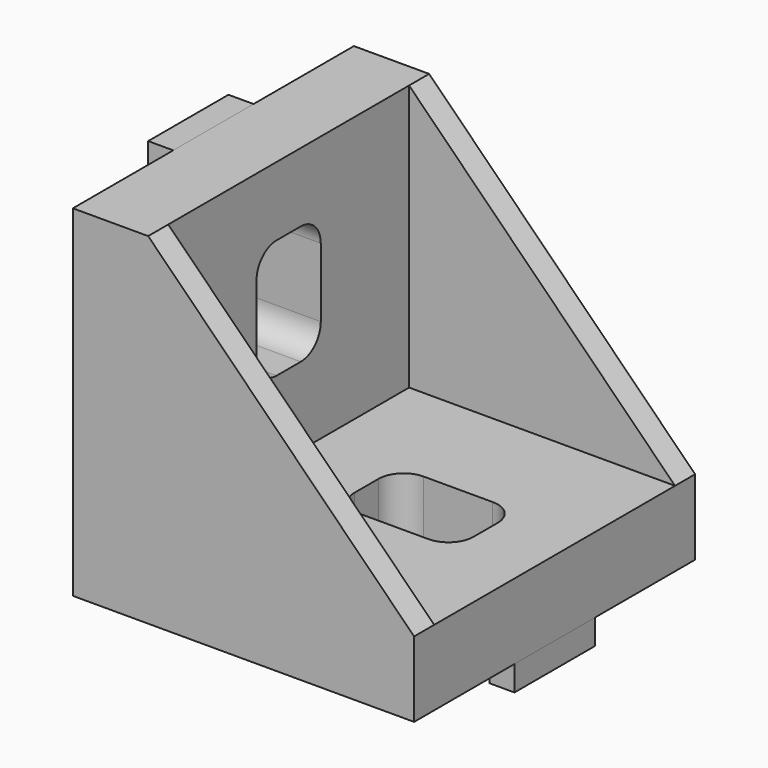
from build123d import *

# Parameters (mm, degrees)
BOX002_W                  = 2
BOX002_H                  = 8
BOX002_DEPTH              = 2
BOX003_W                  = 2
BOX003_H                  = 8
BOX003_DEPTH              = 2
BOX004_W                  = 2
BOX004_H                  = 8
BOX004_DEPTH              = 2
BOX005_W                  = 2
BOX005_H                  = 8
BOX005_DEPTH              = 2
FUSION002_PLACEMENT_ANGLE = 270
BOX_W                     = 9.5
BOX_H                     = 6.4
BOX_DEPTH                 = 6
BOX001_W                  = 9.5
BOX001_H                  = 6.4
BOX001_DEPTH              = 6
COMPOUND_PLACEMENT_ANGLE  = 270
PAD001_DEPTH              = 24
PAD_DEPTH                 = 28
FILLET_R                  = 2


with BuildPart() as cube002:
    # Box002 → Box002 (new body)
    with BuildSketch(Plane(origin=(0, -18, -2), x_dir=(1, 0, 0), z_dir=(0, 0, 1))):
        with Locations((1, 4)):
            Rectangle(BOX002_W, BOX002_H)
    extrude(amount=BOX002_DEPTH)


with BuildPart() as fusion001:
    # Box003 → Box003 (new body)
    with BuildSketch(Plane(origin=(25.2, -18, -2), x_dir=(1, 0, 0), z_dir=(0, 0, 1))):
        with Locations((1, 4)):
            Rectangle(BOX003_W, BOX003_H)
    extrude(amount=BOX003_DEPTH)

    # Fusion001: union Cube002
    add(cube002.part)


with BuildPart() as cube004:
    # Box004 → Box004 (new body)
    with BuildSketch(Plane(origin=(0, -18, -2), x_dir=(1, 0, 0), z_dir=(0, 0, 1))):
        with Locations((1, 4)):
            Rectangle(BOX004_W, BOX004_H)
    extrude(amount=BOX004_DEPTH)


with BuildPart() as slotguide:
    # Box005 → Box005 (new body)
    with BuildSketch(Plane(origin=(25.2, -18, -2), x_dir=(1, 0, 0), z_dir=(0, 0, 1))):
        with Locations((1, 4)):
            Rectangle(BOX005_W, BOX005_H)
    extrude(amount=BOX005_DEPTH)

    # Fusion002: union Cube004
    add(cube004.part)


with BuildPart() as slotguide_1:
    # Fusion002 placement: moved
    add(slotguide.part.moved(Location((-2, 0, 0))).rotate(Axis((-2, 0, 0), (0, 1, 0)), FUSION002_PLACEMENT_ANGLE))

    # Fusion003: union Fusion001
    add(fusion001.part)


with BuildPart() as cube:
    # Box → Box (new body)
    with BuildSketch(Plane(origin=(12.2, -17.2, 0), x_dir=(1, 0, 0), z_dir=(0, 0, 1))):
        with Locations((4.75, 3.2)):
            Rectangle(BOX_W, BOX_H)
    extrude(amount=BOX_DEPTH)


with BuildPart() as fusion:
    # Box001 → Box001 (new body)
    with BuildSketch(Plane(origin=(12.2, -17.2, 0), x_dir=(1, 0, 0), z_dir=(0, 0, 1))):
        with Locations((4.75, 3.2)):
            Rectangle(BOX001_W, BOX001_H)
    extrude(amount=BOX001_DEPTH)


with BuildPart() as fusion_1:
    # Compound placement: moved
    add(fusion.part.moved(Location((6, 0, 0))).rotate(Axis((6, 0, 0), (0, 1, 0)), COMPOUND_PLACEMENT_ANGLE))

    # Fusion: union Cube
    add(cube.part)


with BuildPart() as body001:
    # Sketch001 → Pad001 (new body)
    with BuildSketch(Plane.XZ):
        Polygon((6, 6), (27.2, 6), (6, 27.2), align=None)
    extrude(amount=PAD001_DEPTH)


with BuildPart() as body001_1:
    # Body001 placement: moved
    add(body001.part.moved(Location((0, -2, 0))))


with BuildPart() as filletedbasebracket:
    # Sketch → Pad (new body)
    with BuildSketch(Plane.XZ):
        Polygon((0, 0), (27.2, 0), (27.2, 6), (6, 27.2), (0, 27.2), align=None)
    extrude(amount=PAD_DEPTH)

    # Cut: cut Body001
    add(body001_1.part, mode=Mode.SUBTRACT)

    # Cut001: cut Fusion
    add(fusion_1.part, mode=Mode.SUBTRACT)

    # Fillet
    fillet_edges = [filletedbasebracket.edges().sort_by_distance(p)[0] for p in [
        (12.2, -17.2, 3),
        (12.2, -10.8, 3),
        (21.7, -17.2, 3),
        (21.7, -10.8, 3),
        (3, -10.8, 21.7),
        (3, -10.8, 12.2),
        (3, -17.2, 21.7),
        (3, -17.2, 12.2),
    ]]
    fillet(fillet_edges, radius=FILLET_R)


solid = Compound([slotguide_1.part, filletedbasebracket.part])
